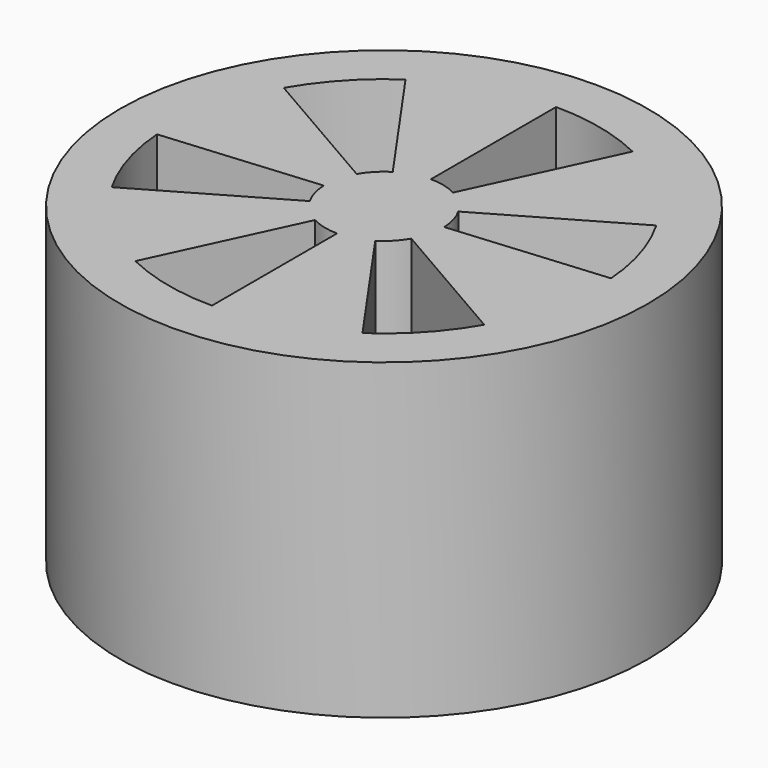
from build123d import *

# Parameters (mm, degrees)
F0_R     = 6.75
F1_DEPTH = 8
F3_DEPTH = 25


with BuildPart() as f1:
    # F0 (on Top) → F1 (new body)
    with BuildSketch(Plane.XY):
        Circle(F0_R)
    extrude(amount=F1_DEPTH)

    # F2 (on face) → F3 (cut)
    with BuildSketch(Plane.XY.offset(8)):
        with BuildLine():
            ThreePointArc((0, 1.5), (0.363208, 1.455362), (0.704799, 1.324107))
            Line((0.704799, 1.324107), (2.395915, 4.950716))
            ThreePointArc((2.395915, 4.950716), (1.229036, 5.360921), (0, 5.5))
            Line((0, 5.5), (0, 1.5))
        make_face()
        with BuildLine():
            ThreePointArc((1.299038, 0.75), (1.441985, 0.413134), (1.499109, 0.051679))
            Line((1.499109, 0.051679), (5.485404, 0.400435))
            ThreePointArc((5.485404, 0.400435), (5.257212, 1.616084), (4.76314, 2.75))
            Line((4.76314, 2.75), (1.299038, 0.75))
        make_face()
        with BuildLine():
            Line((4.76314, -2.75), (1.299038, -0.75))
            ThreePointArc((1.299038, -0.75), (1.078777, -1.042229), (0.79431, -1.272427))
            Line((0.79431, -1.272427), (3.089488, -4.550281))
            ThreePointArc((3.089488, -4.550281), (4.028175, -3.744837), (4.76314, -2.75))
        make_face()
        with BuildLine():
            Line((0, -5.5), (0, -1.5))
            ThreePointArc((0, -1.5), (-0.363208, -1.455362), (-0.704799, -1.324107))
            Line((-0.704799, -1.324107), (-2.395915, -4.950716))
            ThreePointArc((-2.395915, -4.950716), (-1.229036, -5.360921), (0, -5.5))
        make_face()
        with BuildLine():
            Line((-4.76314, -2.75), (-1.299038, -0.75))
            ThreePointArc((-1.299038, -0.75), (-1.441985, -0.413134), (-1.499109, -0.051679))
            Line((-1.499109, -0.051679), (-5.485404, -0.400435))
            ThreePointArc((-5.485404, -0.400435), (-5.257212, -1.616084), (-4.76314, -2.75))
        make_face()
        with BuildLine():
            ThreePointArc((-1.299038, 0.75), (-1.078777, 1.042229), (-0.79431, 1.272427))
            Line((-0.79431, 1.272427), (-3.089488, 4.550281))
            ThreePointArc((-3.089488, 4.550281), (-4.028175, 3.744837), (-4.76314, 2.75))
            Line((-4.76314, 2.75), (-1.299038, 0.75))
        make_face()
    extrude(amount=-F3_DEPTH, mode=Mode.SUBTRACT)


solid = f1.part
